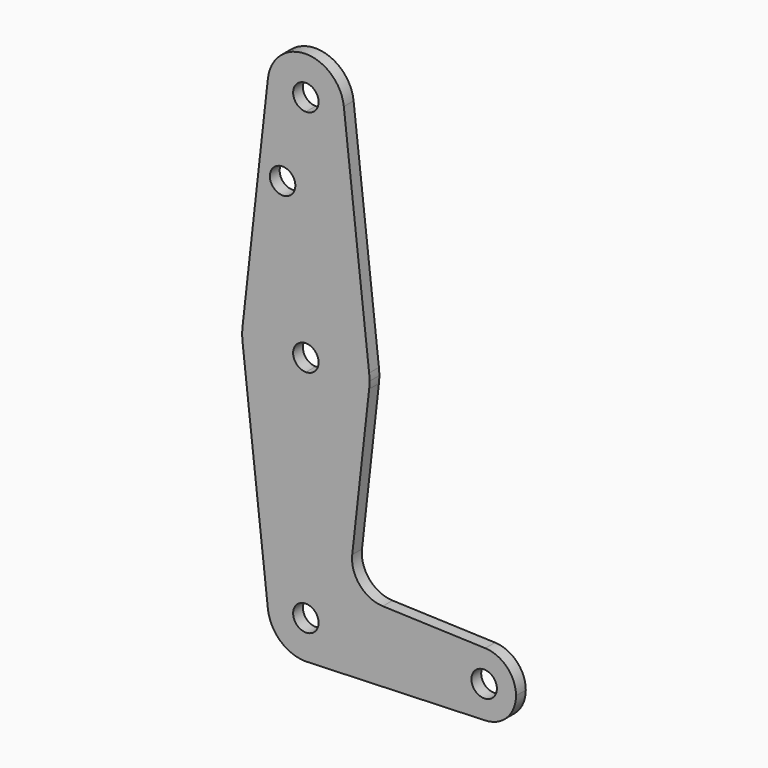
from build123d import *

# Parameters (mm, degrees)
F0_R     = 3.175
F1_DEPTH = 3.048


with BuildPart() as f1:
    # F0 (on Front) → F1 (new body)
    with BuildSketch(Plane.XZ):
        with BuildLine():
            ThreePointArc((9.525, 114.3), (6.7351920908, 107.5648079092), (0, 104.775))
            Line((0, 104.775), (0, 73.025))
            ThreePointArc((0, 73.025), (10.5833333333, 68.9825263809), (15.7767018412, 58.9138888889))
            Line((15.7767018412, 58.9138888889), (9.4660211047, 115.3583333333))
            ThreePointArc((9.4660211047, 115.3583333333), (9.5102438461, 114.829987725), (9.525, 114.3))
        make_face()
        with BuildLine():
            Line((0, 73.025), (0, 104.775))
            ThreePointArc((0, 104.775), (-7.0995158286, 107.95), (-9.4660211047, 115.3583333333))
            Line((-9.4660211047, 115.3583333333), (-15.7767018412, 58.9138888889))
            ThreePointArc((-15.7767018412, 58.9138888889), (-10.5833333333, 68.9825263809), (0, 73.025))
        make_face()
        with Locations((-5.7987668552, 94.0601825714)):
            Circle(F0_R, mode=Mode.SUBTRACT)
        with BuildLine():
            ThreePointArc((-9.4660211047, 115.3583333333), (-7.0995158286, 107.95), (0, 104.775))
            ThreePointArc((0, 104.775), (6.7351920908, 107.5648079092), (9.525, 114.3))
            ThreePointArc((9.525, 114.3), (9.5102438461, 114.829987725), (9.4660211047, 115.3583333333))
            ThreePointArc((9.4660211047, 115.3583333333), (0, 123.825), (-9.4660211047, 115.3583333333))
        make_face()
        with BuildLine():
            ThreePointArc((3.175, 114.3), (2.2450640303, 112.0549359697), (0, 111.125))
            ThreePointArc((0, 111.125), (-2.2450640303, 116.5450640303), (3.175, 114.3))
        make_face(mode=Mode.SUBTRACT)
        with BuildLine():
            ThreePointArc((15.7767018412, 58.9138888889), (10.5833333333, 68.9825263809), (0, 73.025))
            Line((0, 73.025), (0, 60.325))
            ThreePointArc((0, 60.325), (2.2450640303, 59.3950640303), (3.175, 57.15))
            ThreePointArc((3.175, 57.15), (2.2450640303, 54.9049359697), (0, 53.975))
            Line((0, 53.975), (0, 41.275))
            ThreePointArc((0, 41.275), (10.5833333333, 45.3174736191), (15.7767018412, 55.3861111111))
            ThreePointArc((15.7767018412, 55.3861111111), (15.8504064101, 56.266687125), (15.875, 57.15))
            ThreePointArc((15.875, 57.15), (15.8504064101, 58.033312875), (15.7767018412, 58.9138888889))
        make_face()
        with BuildLine():
            Line((0, 60.325), (0, 73.025))
            ThreePointArc((0, 73.025), (-10.5833333333, 68.9825263809), (-15.7767018412, 58.9138888889))
            ThreePointArc((-15.7767018412, 58.9138888889), (-15.875, 57.15), (-15.7767018412, 55.3861111111))
            ThreePointArc((-15.7767018412, 55.3861111111), (-10.5833333333, 45.3174736191), (0, 41.275))
            Line((0, 41.275), (0, 53.975))
            ThreePointArc((0, 53.975), (-3.175, 57.15), (0, 60.325))
        make_face()
        with BuildLine():
            ThreePointArc((0, 41.275), (-10.5833333333, 45.3174736191), (-15.7767018412, 55.3861111111))
            Line((-15.7767018412, 55.3861111111), (-9.4660211047, -1.0583333333))
            ThreePointArc((-9.4660211047, -1.0583333333), (-7.0995158286, 6.35), (0, 9.525))
            Line((0, 9.525), (0, 41.275))
        make_face()
        with BuildLine():
            ThreePointArc((15.7767018412, 55.3861111111), (10.5833333333, 45.3174736191), (0, 41.275))
            Line((0, 41.275), (0, 9.525))
            ThreePointArc((0, 9.525), (6.7351920908, 6.7351920908), (9.525, 0))
            Line((9.525, 0), (36.5125, 0))
            ThreePointArc((36.5125, 0), (38.9384772185, 5.7120069047), (44.7334821429, 7.9324362036))
            Line((44.7334821429, 7.9324362036), (19.1774206917, 8.8457353311))
            ThreePointArc((19.1774206917, 8.8457353311), (13.4419120256, 11.5974089569), (11.5603841239, 17.6742189882))
            Line((11.5603841239, 17.6742189882), (15.7767018412, 55.3861111111))
        make_face()
        with BuildLine():
            Line((36.5125, 0), (9.525, 0))
            ThreePointArc((9.525, 0), (6.9705567315, -6.4912990883), (0.6773435479, -9.500885786))
            Line((0.6773435479, -9.500885786), (44.7324052746, -7.9324746146))
            ThreePointArc((44.7324052746, -7.9324746146), (38.9380895153, -5.7116327839), (36.5125, 0))
        make_face()
        with BuildLine():
            ThreePointArc((9.525, 0), (6.7351920908, 6.7351920908), (0, 9.525))
            Line((0, 9.525), (0, 3.175))
            ThreePointArc((0, 3.175), (2.2450640303, 2.2450640303), (3.175, 0))
            Line((3.175, 0), (9.525, 0))
        make_face()
        with BuildLine():
            ThreePointArc((44.7334821429, 7.9324362036), (38.9384772185, 5.7120069047), (36.5125, 0))
            ThreePointArc((36.5125, 0), (38.9380895153, -5.7116327839), (44.7324052746, -7.9324746146))
            ThreePointArc((44.7324052746, -7.9324746146), (50.1616327839, -5.5119104847), (52.3875, 0))
            ThreePointArc((52.3875, 0), (50.1620069047, 5.5115227815), (44.7334821429, 7.9324362036))
        make_face()
        with BuildLine():
            ThreePointArc((47.625, 0), (44.45, -3.175), (41.275, 0))
            ThreePointArc((41.275, 0), (44.45, 3.175), (47.625, 0))
        make_face(mode=Mode.SUBTRACT)
        with BuildLine():
            ThreePointArc((0, 9.525), (-7.0995158286, 6.35), (-9.4660211047, -1.0583333333))
            ThreePointArc((-9.4660211047, -1.0583333333), (-6.35, -7.0995158286), (0, -9.525))
            Line((0, -9.525), (0.6773435479, -9.500885786))
            ThreePointArc((0.6773435479, -9.500885786), (6.9705567315, -6.4912990883), (9.525, 0))
            Line((9.525, 0), (3.175, 0))
            ThreePointArc((3.175, 0), (-2.2450640303, -2.2450640303), (0, 3.175))
            Line((0, 3.175), (0, 9.525))
        make_face()
    extrude(amount=F1_DEPTH)


solid = f1.part
